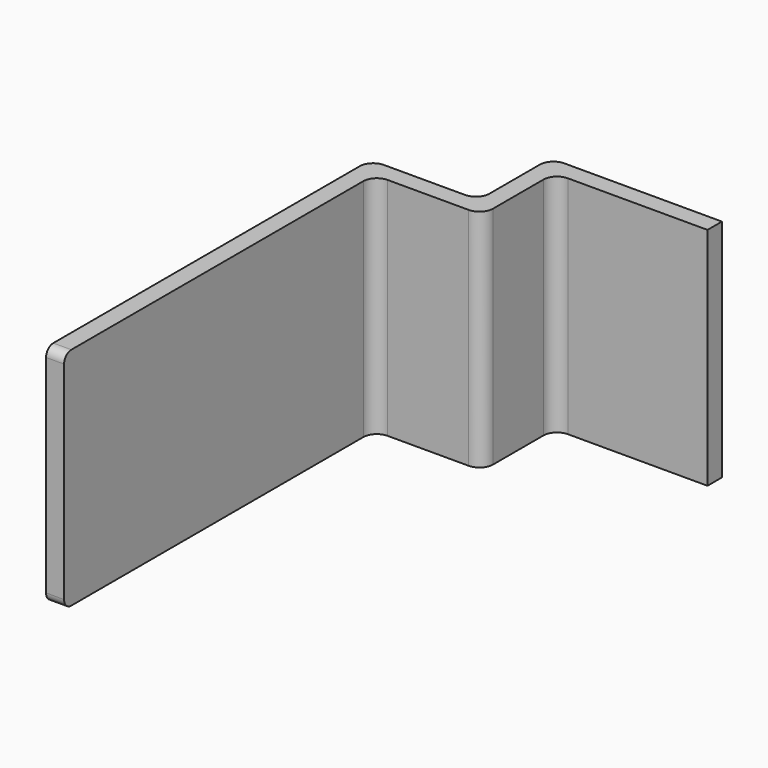
from build123d import *

# Parameters (mm, degrees)
BOX003_W               = 2
BOX003_H               = 19
BOX003_DEPTH           = 25
BOX003_PLACEMENT_ANGLE = -90
BOX002_W               = 2
BOX002_H               = 8
BOX002_DEPTH           = 25
BOX001_W               = 2
BOX001_H               = 13
BOX001_DEPTH           = 25
BOX001_PLACEMENT_ANGLE = -90
BOX_W                  = 2
BOX_H                  = 45
BOX_DEPTH              = 25
FILLET006_R            = 1.5
FILLET007_R            = 1


with BuildPart() as box003:
    # Box003 → Box003 (new body)
    with BuildSketch(Plane.XY):
        with Locations((1, 9.5)):
            Rectangle(BOX003_W, BOX003_H)
    extrude(amount=BOX003_DEPTH)


with BuildPart() as box003_1:
    # Box003 placement: moved
    add(box003.part.moved(Location((10, 55, 0))).rotate(Axis((10, 55, 0), (0, 0, 1)), BOX003_PLACEMENT_ANGLE))


with BuildPart() as box002:
    # Box002 → Box002 (new body)
    with BuildSketch(Plane(origin=(10, 45, 0), x_dir=(1, 0, 0), z_dir=(0, 0, 1))):
        with Locations((1, 4)):
            Rectangle(BOX002_W, BOX002_H)
    extrude(amount=BOX002_DEPTH)


with BuildPart() as box001:
    # Box001 → Box001 (new body)
    with BuildSketch(Plane.XY):
        with Locations((1, 6.5)):
            Rectangle(BOX001_W, BOX001_H)
    extrude(amount=BOX001_DEPTH)


with BuildPart() as box001_1:
    # Box001 placement: moved
    add(box001.part.moved(Location((-1, 45, 0))).rotate(Axis((-1, 45, 0), (0, 0, 1)), BOX001_PLACEMENT_ANGLE))


with BuildPart() as obj1:
    # Box → Box (new body)
    with BuildSketch(Plane(origin=(-2, 0, 0), x_dir=(1, 0, 0), z_dir=(0, 0, 1))):
        with Locations((1, 22.5)):
            Rectangle(BOX_W, BOX_H)
    extrude(amount=BOX_DEPTH)

    # Fusion: union Box001
    add(box001_1.part)

    # Fusion001: union Box003, Box002
    add(box003_1.part)
    add(box002.part)

    # Fillet006
    fillet006_edges = [obj1.edges().sort_by_distance(p)[0] for p in [
        (-2, 45, 12.5),
        (10, 45, 12.5),
        (0, 43, 12.5),
        (12, 43, 12.5),
        (10, 55, 12.5),
        (12, 53, 12.5),
    ]]
    fillet(fillet006_edges, radius=FILLET006_R)

    # Fillet007
    fillet007_edges = [obj1.edges().sort_by_distance(p)[0] for p in [
        (-1, 0, 25),
        (-1, 0, 0),
    ]]
    fillet(fillet007_edges, radius=FILLET007_R)


solid = obj1.part
